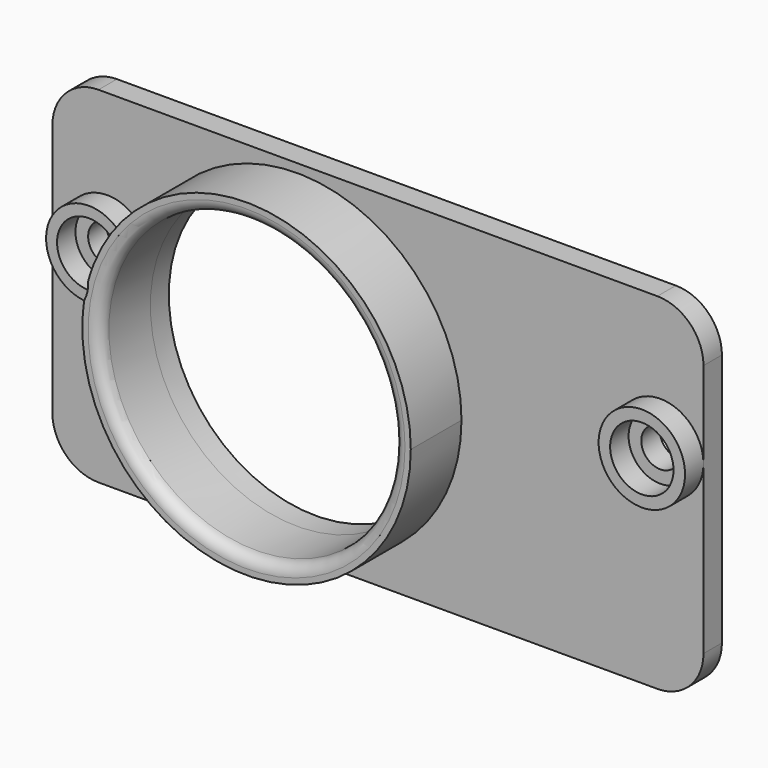
from build123d import *

# Parameters (mm, degrees)
F1_DEPTH = 4
F0_R     = 3.75
F0_R_2   = 2.75
F0_R_3   = 12.75
F2_DEPTH = 7.5
F3_R     = 1
F4_DEPTH = 2
F5_D     = 3.3
F5_DEPTH = 13.5
F5_TIP   = 0.9914200214


with BuildPart() as f1:
    # F0 (on Front) → F1 (new body)
    with BuildSketch(Plane.XZ):
        with BuildLine():
            ThreePointArc((-20.7581509246, 3.7115742128), (-20.5234057924, 4.4922150187), (-20.244406426, 5.2581554201))
            ThreePointArc((-20.244406426, 5.2581554201), (-27.1194662629, 4.2677655709), (-21.2385329413, 0.5715589912))
            ThreePointArc((-21.2385329413, 0.5715589912), (-21.1825530428, 1.3848065524), (-21.080161905, 2.193522448))
            ThreePointArc((-21.080161905, 2.193522448), (-26.190143844, 4.070636573), (-20.7581509246, 3.7115742128))
        make_face()
        with BuildLine():
            ThreePointArc((-19.8, 3.5), (-19.9128217062, 4.4067259168), (-20.244406426, 5.2581554201))
            ThreePointArc((-20.244406426, 5.2581554201), (-20.5234057924, 4.4922150187), (-20.7581509246, 3.7115742128))
            ThreePointArc((-20.7581509246, 3.7115742128), (-20.7520384867, 3.6058655811), (-20.75, 3.5))
            ThreePointArc((-20.75, 3.5), (-20.8338178268, 2.8262250974), (-21.080161905, 2.193522448))
            ThreePointArc((-21.080161905, 2.193522448), (-21.1825530428, 1.3848065524), (-21.2385329413, 0.5715589912))
            ThreePointArc((-21.2385329413, 0.5715589912), (-20.1790492237, 1.868655174), (-19.8, 3.5))
        make_face()
    extrude(amount=F1_DEPTH)


with BuildPart() as f1b:
    # F0 (on Front) → F1, piece 2 (new body)
    with BuildSketch(Plane.XZ):
        with Locations((24.5, 3.5)):
            Circle(F0_R)
        with Locations((24.5, 3.5)):
            Circle(F0_R_2, mode=Mode.SUBTRACT)
    extrude(amount=F1_DEPTH)


with BuildPart() as f2:
    # F0 (on Front) → F2 (new body)
    with BuildSketch(Plane.XZ):
        with BuildLine():
            ThreePointArc((-21.2385329413, 0.5715589912), (-7.285837005, -14.2471329469), (7.25, 0))
            ThreePointArc((7.25, 0), (-4.3232754691, 13.996344015), (-20.244406426, 5.2581554201))
            ThreePointArc((-20.244406426, 5.2581554201), (-19.9128217062, 4.4067259168), (-19.8, 3.5))
            ThreePointArc((-19.8, 3.5), (-20.1790492237, 1.868655174), (-21.2385329413, 0.5715589912))
        make_face()
        with Locations((-7, 0)):
            Circle(F0_R_3, mode=Mode.SUBTRACT)
        with BuildLine():
            ThreePointArc((-19.8, 3.5), (-19.9128217062, 4.4067259168), (-20.244406426, 5.2581554201))
            ThreePointArc((-20.244406426, 5.2581554201), (-20.5234057924, 4.4922150187), (-20.7581509246, 3.7115742128))
            ThreePointArc((-20.7581509246, 3.7115742128), (-20.7520384867, 3.6058655811), (-20.75, 3.5))
            ThreePointArc((-20.75, 3.5), (-20.8338178268, 2.8262250974), (-21.080161905, 2.193522448))
            ThreePointArc((-21.080161905, 2.193522448), (-21.1825530428, 1.3848065524), (-21.2385329413, 0.5715589912))
            ThreePointArc((-21.2385329413, 0.5715589912), (-20.1790492237, 1.868655174), (-19.8, 3.5))
        make_face()
    extrude(amount=F2_DEPTH)

    # F3
    f3_edges = [f2.edges().sort_by_distance(p)[0] for p in [
        (-19.75, -7.5, 0),
        (-19.75, 0, 0),
    ]]
    fillet(f3_edges, radius=F3_R)


with BuildPart() as f4:
    # F0 (on Front) → F4 (new body)
    with BuildSketch(Plane.XZ):
        with BuildLine():
            Line((-24.25, -15), (24.25, -15))
            ThreePointArc((24.25, -15), (27.0784271247, -13.8284271247), (28.25, -11))
            Line((28.25, -11), (28.25, 3.5))
            Line((28.25, 3.5), (28.25, 11))
            ThreePointArc((28.25, 11), (27.0784271247, 13.8284271247), (24.25, 15))
            Line((24.25, 15), (-24.25, 15))
            ThreePointArc((-24.25, 15), (-27.0784271247, 13.8284271247), (-28.25, 11))
            Line((-28.25, 11), (-28.25, -11))
            ThreePointArc((-28.25, -11), (-27.0784271247, -13.8284271247), (-24.25, -15))
        make_face()
        with BuildLine():
            ThreePointArc((-20.244406426, 5.2581554201), (-4.3232754691, 13.996344015), (7.25, 0))
            ThreePointArc((7.25, 0), (-7.285837005, -14.2471329469), (-21.2385329413, 0.5715589912))
            ThreePointArc((-21.2385329413, 0.5715589912), (-27.1194662629, 4.2677655709), (-20.244406426, 5.2581554201))
        make_face(mode=Mode.SUBTRACT)
        with Locations((24.5, 3.5)):
            Circle(F0_R, mode=Mode.SUBTRACT)
        with BuildLine():
            ThreePointArc((-21.080161905, 2.193522448), (-20.9398362827, 2.9569349691), (-20.7581509246, 3.7115742128))
            ThreePointArc((-20.7581509246, 3.7115742128), (-26.190143844, 4.070636573), (-21.080161905, 2.193522448))
        make_face()
        with Locations((24.5, 3.5)):
            Circle(F0_R)
        with Locations((24.5, 3.5)):
            Circle(F0_R_2, mode=Mode.SUBTRACT)
        with BuildLine():
            ThreePointArc((-20.7581509246, 3.7115742128), (-20.5234057924, 4.4922150187), (-20.244406426, 5.2581554201))
            ThreePointArc((-20.244406426, 5.2581554201), (-27.1194662629, 4.2677655709), (-21.2385329413, 0.5715589912))
            ThreePointArc((-21.2385329413, 0.5715589912), (-21.1825530428, 1.3848065524), (-21.080161905, 2.193522448))
            ThreePointArc((-21.080161905, 2.193522448), (-26.190143844, 4.070636573), (-20.7581509246, 3.7115742128))
        make_face()
        with BuildLine():
            ThreePointArc((-19.8, 3.5), (-19.9128217062, 4.4067259168), (-20.244406426, 5.2581554201))
            ThreePointArc((-20.244406426, 5.2581554201), (-20.5234057924, 4.4922150187), (-20.7581509246, 3.7115742128))
            ThreePointArc((-20.7581509246, 3.7115742128), (-20.7520384867, 3.6058655811), (-20.75, 3.5))
            ThreePointArc((-20.75, 3.5), (-20.8338178268, 2.8262250974), (-21.080161905, 2.193522448))
            ThreePointArc((-21.080161905, 2.193522448), (-21.1825530428, 1.3848065524), (-21.2385329413, 0.5715589912))
            ThreePointArc((-21.2385329413, 0.5715589912), (-20.1790492237, 1.868655174), (-19.8, 3.5))
        make_face()
        with BuildLine():
            ThreePointArc((-20.75, 3.5), (-20.7520384867, 3.6058655811), (-20.7581509246, 3.7115742128))
            ThreePointArc((-20.7581509246, 3.7115742128), (-20.9398362827, 2.9569349691), (-21.080161905, 2.193522448))
            ThreePointArc((-21.080161905, 2.193522448), (-20.8338178268, 2.8262250974), (-20.75, 3.5))
        make_face()
        with BuildLine():
            ThreePointArc((-21.2385329413, 0.5715589912), (-7.285837005, -14.2471329469), (7.25, 0))
            ThreePointArc((7.25, 0), (-4.3232754691, 13.996344015), (-20.244406426, 5.2581554201))
            ThreePointArc((-20.244406426, 5.2581554201), (-19.9128217062, 4.4067259168), (-19.8, 3.5))
            ThreePointArc((-19.8, 3.5), (-20.1790492237, 1.868655174), (-21.2385329413, 0.5715589912))
        make_face()
        with Locations((-7, 0)):
            Circle(F0_R_3, mode=Mode.SUBTRACT)
        with Locations((24.5, 3.5)):
            Circle(F0_R_2)
    extrude(amount=F4_DEPTH)

    # F5
    with Locations(Plane(origin=(0, 0, 0), x_dir=(1, 0, 0), z_dir=(0, 1, 0))):
        with Locations((24.5, -3.5), (-23.5, -3.5)):
            Hole(F5_D / 2, depth=F5_DEPTH)
            with Locations((0, 0, -(F5_DEPTH + F5_TIP / 2))):  # 118° drill point
                Cone(0, F5_D / 2, F5_TIP, mode=Mode.SUBTRACT)


solid = Compound([f1.part, f1b.part, f2.part, f4.part])
